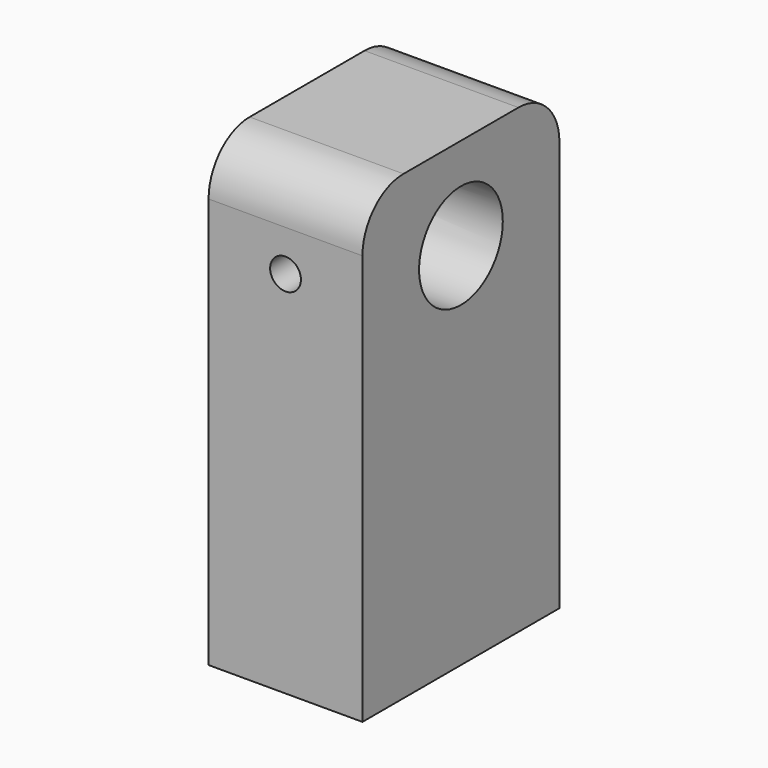
from build123d import *

# Parameters (mm, degrees)
F0_W     = 24
F0_H     = 45
F0_R     = 5.1
F1_DEPTH = 15
F2_R     = 5
F3_R     = 1.5
F4_DEPTH = 24


with BuildPart() as f1:
    # F0 (on Right) → F1 (new body)
    with BuildSketch(Plane.YZ):
        with Locations((0, -22.5)):
            Rectangle(F0_W, F0_H)
        with Locations((0, -9)):
            Circle(F0_R, mode=Mode.SUBTRACT)
    extrude(amount=F1_DEPTH)

    # F2
    f2_edges = [f1.edges().sort_by_distance(p)[0] for p in [
        (7.5, 12, 0),
        (7.5, -12, 0),
    ]]
    fillet(f2_edges, radius=F2_R)

    # F3 (on face) → F4 (cut, through all)
    with BuildSketch(Plane.XZ.offset(12)):
        with Locations((7.5, -9)):
            Circle(F3_R)
    extrude(amount=-F4_DEPTH, mode=Mode.SUBTRACT)


solid = f1.part
